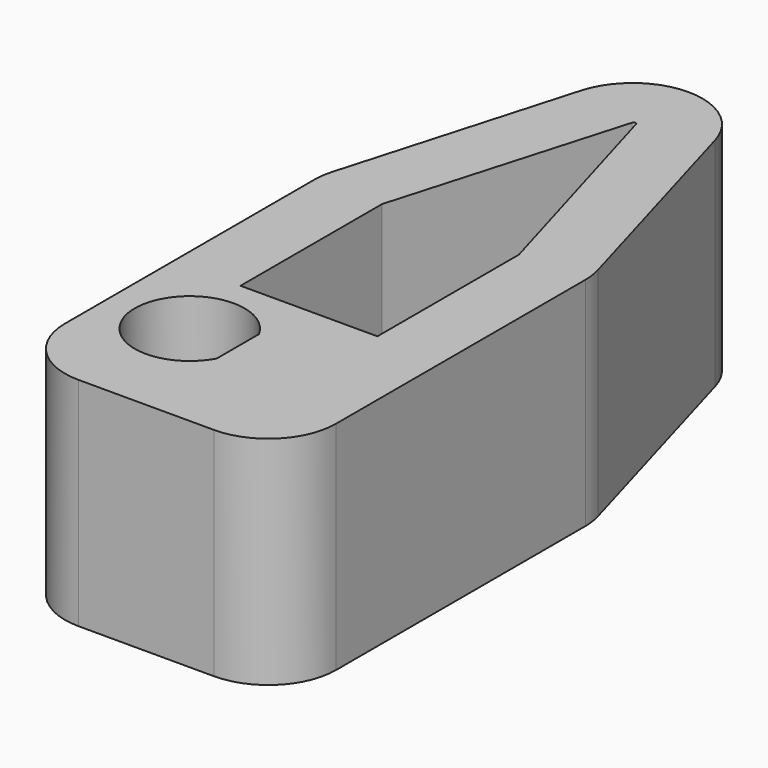
from build123d import *

# Parameters (mm, degrees)
PAD_DEPTH            = 16
POCKET_DEPTH         = 106.884114
POCKET_DEPTH_BACK    = 122.884114
POCKET001_DEPTH      = 0.001
POCKET001_DEPTH_BACK = 16.001


with BuildPart() as part:
    # Sketch → Pad (new body)
    with BuildSketch(Plane.XY):
        with BuildLine():
            ThreePointArc((4.949542, 31.272861), (3.097964, 33.964015), (0, 35))
            Line((0, -15), (0, 35))
            Line((0, -15), (5, -15))
            ThreePointArc((5, -15), (8.535534, -13.535534), (10, -10))
            Line((10, -10), (10, 13))
            ThreePointArc((10, 13), (9.951106, 13.69753), (9.805381, 14.381419))
            Line((4.949542, 31.272861), (9.805381, 14.381419))
        make_face()
    pad = extrude(amount=PAD_DEPTH)

    # Sketch001 → Pocket (cut, two sides)
    with BuildSketch(Plane.XY) as pocket_sk:
        with BuildLine():
            Line((0, 0), (5.05, 0))
            Line((5.05, 0), (5.05, 13.05))
            Line((5.05, 13.05), (0.144081, 29.991722))
            ThreePointArc((0.144081, 29.991722), (0.090116, 30.069913), (0, 30.1))
            Line((0, 30.1), (0, 0))
        make_face()
    pocket = extrude(amount=-POCKET_DEPTH, mode=Mode.SUBTRACT) + extrude(pocket_sk.sketch, amount=POCKET_DEPTH_BACK, mode=Mode.SUBTRACT)

    # Mirrored: Pad, Pocket across Sketch V_Axis
    add(pad.mirror(Plane(origin=(0, 0, 0), x_dir=(0, 0, 1), z_dir=(1, 0, 0))))
    add(pocket.mirror(Plane(origin=(0, 0, 0), x_dir=(0, 0, 1), z_dir=(1, 0, 0))), mode=Mode.SUBTRACT)

    # Sketch002 → Pocket001 (cut, two sides)
    with BuildSketch(Plane(origin=(-4, -6, 0), x_dir=(1, 0, 0), z_dir=(0, 0, 1))) as pocket001_sk:
        with BuildLine():
            ThreePointArc((3.55, 1.949359), (-4.05, 0), (3.55, -1.949359))
            Line((3.55, 1.949359), (3.55, -1.949359))
        make_face()
    extrude(amount=-POCKET001_DEPTH, mode=Mode.SUBTRACT)
    extrude(pocket001_sk.sketch, amount=POCKET001_DEPTH_BACK, mode=Mode.SUBTRACT)


solid = part.part
